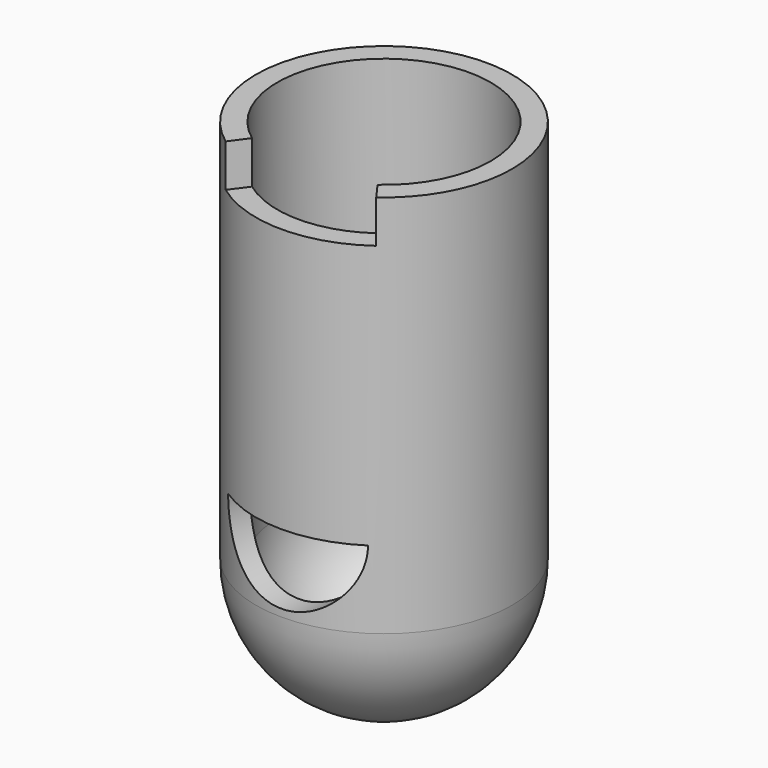
from build123d import *

# Parameters (mm, degrees)
F0_R     = 457.2
F0_R_2   = 381
F1_DEPTH = 1371.6
F5_DEPTH = 457.2
F7_START = 1219.2
F7_DEPTH = 152.4


with BuildPart() as f1:
    # F0 (on Top) → F1 (new body)
    with BuildSketch(Plane.XY):
        Circle(F0_R)
        Circle(F0_R_2, mode=Mode.SUBTRACT)
        Circle(F0_R)
        Circle(F0_R_2, mode=Mode.SUBTRACT)
    extrude(amount=F1_DEPTH)

    # F2 (on Right) → F3 (revolve)
    with BuildSketch(Plane.YZ):
        with BuildLine():
            ThreePointArc((0, -381), (-269.4076836321, -269.4076836321), (-381, 0))
            Line((-381, 0), (-457.2, 0))
            ThreePointArc((-457.2, 0), (-323.2892203585, -323.2892203585), (0, -457.2))
            Line((0, -457.2), (0, -381))
        make_face()
    revolve(axis=Axis((0, 0, -419.1), (0, 0, 1)))

    # F4 (on Front) → F5 (cut)
    with BuildSketch(Plane.XZ):
        with BuildLine():
            ThreePointArc((-250.6338357925, 276.2475907803), (-0.6155371666, 26.2292921543), (249.4027614594, 276.2475907803))
            Line((249.4027614594, 276.2475907803), (-250.6338357925, 276.2475907803))
        make_face()
    extrude(amount=F5_DEPTH, mode=Mode.SUBTRACT)

    # F6 (on Top) → F7 (cut)
    with BuildSketch(Plane.XY.offset(F7_START)):
        with BuildLine():
            Line((268.4118130728, -370.1174659523), (0, 0))
            Line((0, 0), (-270.6568666844, -368.4789010467))
            ThreePointArc((-270.6568666844, -368.4789010467), (-1.3897086627, -457.1978879105), (268.4118130728, -370.1174659523))
        make_face()
    extrude(amount=F7_DEPTH, mode=Mode.SUBTRACT)


solid = f1.part
